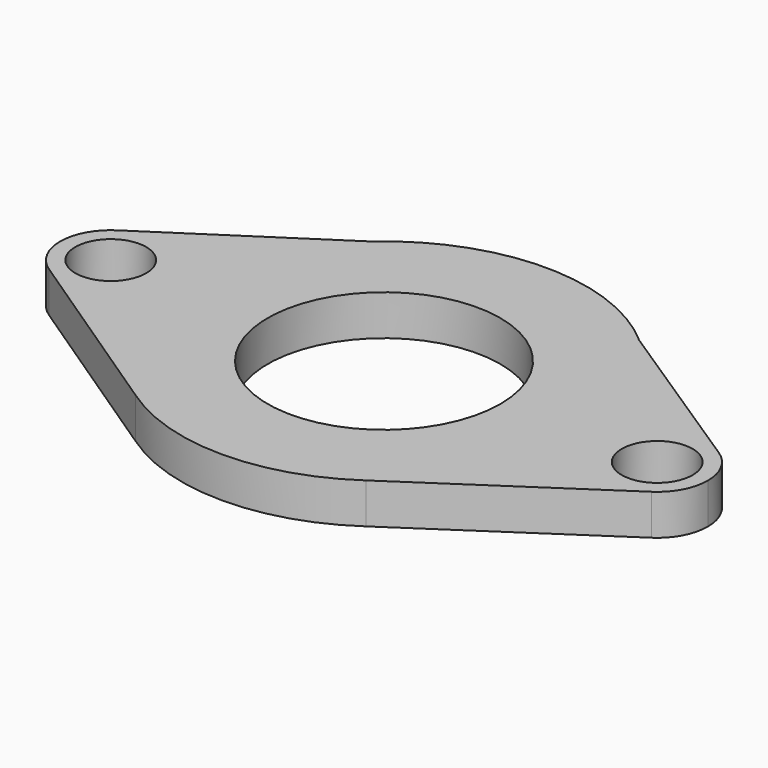
from build123d import *

# Parameters (mm, degrees)
F0_R     = 5.5626
F0_R_2   = 18.25625
F1_DEPTH = 6.35


with BuildPart() as f1:
    # F0 (on Top) → F1 (new body)
    with BuildSketch(Plane.XY):
        with BuildLine():
            ThreePointArc((-47.271374, -6.600435), (-39.120277, -6.999977), (-34.925, 0))
            ThreePointArc((-34.925, 0), (-39.089023, 6.983178), (-47.212188, 6.639587))
            ThreePointArc((-47.212188, 6.639587), (-50.799921, 0.035482), (-47.271374, -6.600435))
        make_face()
        with Locations((-42.8625, 0)):
            Circle(F0_R, mode=Mode.SUBTRACT)
        with BuildLine():
            ThreePointArc((-47.212188, 6.639587), (-39.089023, 6.983178), (-34.925, 0))
            ThreePointArc((-34.925, 0), (-39.120277, -6.999977), (-47.271374, -6.600435))
            Line((-47.271374, -6.600435), (-18.08142, -26.098367))
            ThreePointArc((-18.08142, -26.098367), (-31.695598, -1.857842), (-21.006643, 23.807214))
            Line((-21.006643, 23.807214), (-47.212188, 6.639587))
        make_face()
        with BuildLine():
            ThreePointArc((21.006643, 23.807214), (0, 31.75), (-21.006643, 23.807214))
            ThreePointArc((-21.006643, 23.807214), (-31.695598, -1.857842), (-18.08142, -26.098367))
            ThreePointArc((-18.08142, -26.098367), (0, -31.75), (18.08142, -26.098367))
            ThreePointArc((18.08142, -26.098367), (28.126034, -14.730536), (31.75, 0))
            ThreePointArc((31.75, 0), (28.939795, 13.05951), (21.006643, 23.807214))
        make_face()
        Circle(F0_R_2, mode=Mode.SUBTRACT)
        with BuildLine():
            Line((47.212188, 6.639587), (21.006643, 23.807214))
            ThreePointArc((21.006643, 23.807214), (28.939795, 13.05951), (31.75, 0))
            ThreePointArc((31.75, 0), (28.126034, -14.730536), (18.08142, -26.098367))
            Line((18.08142, -26.098367), (47.271374, -6.600435))
            ThreePointArc((47.271374, -6.600435), (34.925079, -0.035482), (47.212188, 6.639587))
        make_face()
        with BuildLine():
            ThreePointArc((50.8, 0), (49.845678, 3.773477), (47.212188, 6.639587))
            ThreePointArc((47.212188, 6.639587), (34.925079, -0.035482), (47.271374, -6.600435))
            ThreePointArc((47.271374, -6.600435), (49.862477, -3.742223), (50.8, 0))
        make_face()
        with Locations((42.8625, 0)):
            Circle(F0_R, mode=Mode.SUBTRACT)
    extrude(amount=F1_DEPTH)


solid = f1.part
